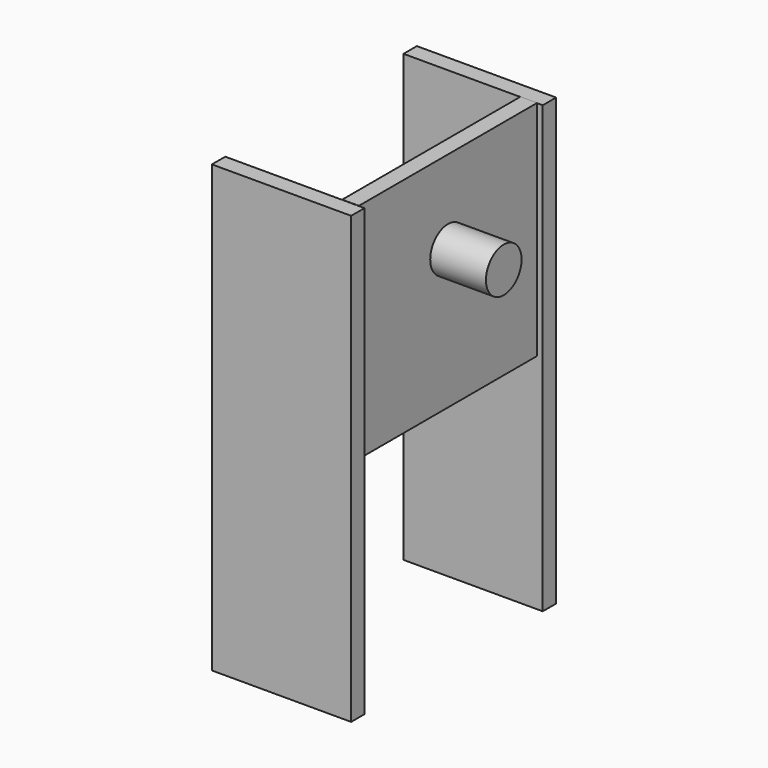
from build123d import *

# Parameters (mm, degrees)
SKETCH005_W  = 25
SKETCH005_H  = 80
PAD004_DEPTH = 3
SKETCH003_R  = 4
PAD002_DEPTH = 10
SKETCH004_W  = 40
SKETCH004_H  = 40
PAD003_DEPTH = 3
SKETCH006_W  = 25
SKETCH006_H  = 80
PAD005_DEPTH = 3


with BuildPart() as pad004:
    # Sketch005 → Pad004 (new body)
    with BuildSketch(Plane.XZ.offset(-12.5)):
        with Locations((-34, -50.041499)):
            Rectangle(SKETCH005_W, SKETCH005_H)
    extrude(amount=-PAD004_DEPTH)


with BuildPart() as pad002:
    # Sketch003 → Pad002 (new body)
    with BuildSketch(Plane(origin=(-12.5, 0, 0), x_dir=(0, -1, 0), z_dir=(-1, 0, 0))):
        with Locations((7.5, -25)):
            Circle(SKETCH003_R)
    extrude(amount=PAD002_DEPTH)


with BuildPart() as pad003:
    # Sketch004 → Pad003 (new body)
    with BuildSketch(Plane(origin=(-22.5, 0, 0), x_dir=(0, -1, 0), z_dir=(-1, 0, 0))):
        with Locations((7.5, -30)):
            Rectangle(SKETCH004_W, SKETCH004_H)
    extrude(amount=PAD003_DEPTH)


with BuildPart() as fusion005:
    # Sketch006 → Pad005 (new body)
    with BuildSketch(Plane.XZ.offset(27.5)):
        with Locations((-34, -50.041499)):
            Rectangle(SKETCH006_W, SKETCH006_H)
    extrude(amount=PAD005_DEPTH)

    # Fusion005: union Pad004, Pad002, Pad003
    add(pad004.part)
    add(pad002.part)
    add(pad003.part)


solid = fusion005.part
